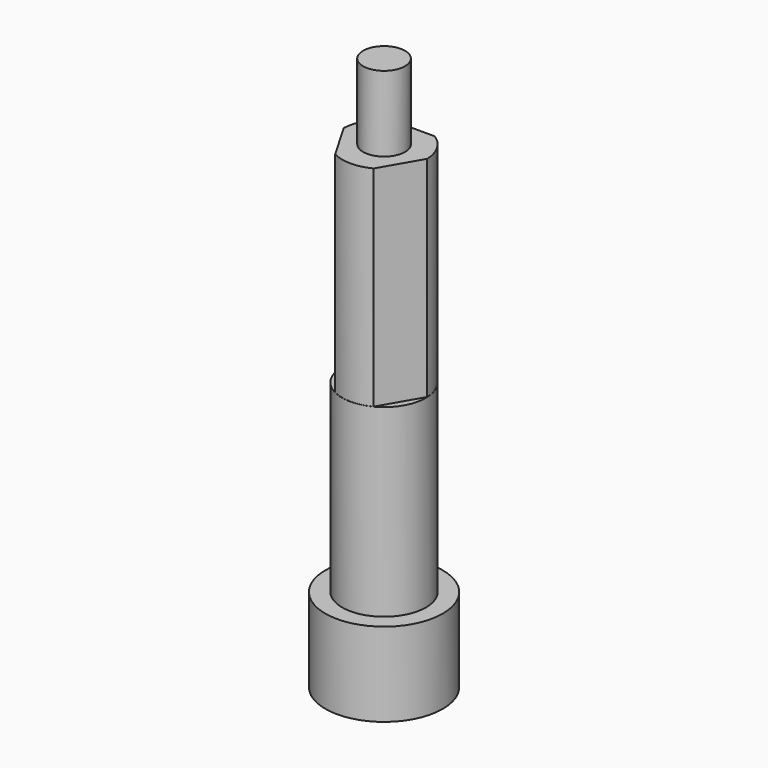
from build123d import *

# Parameters (mm, degrees)
F0_R      = 8.89
F1_DEPTH  = 12.7
F2_R      = 6.35
F3_DEPTH  = 27.94
F5_DEPTH  = 43.18
F6_R      = 20.2522571076
F6_R_2    = 6.3246
F7_DEPTH  = 43.18
F8_R      = 4
F9_DEPTH  = 33.02
F13_D     = 2.2606
F13_DEPTH = 8.89
F13_START = 0.0721476
F13_TIP   = 0.6791527577
F14_R     = 8.89
F14_R_2   = 3.175
F15_DEPTH = 11.43


with BuildPart() as f1:
    # F0 (on Top) → F1 (new body)
    with BuildSketch(Plane.XY):
        Circle(F0_R)
    extrude(amount=F1_DEPTH)

    # F2 (on face) → F3 (join)
    with BuildSketch(Plane.XY.offset(12.7)):
        Circle(F2_R)
    extrude(amount=F3_DEPTH)

    # F4 (on face) → F5 (join)
    with BuildSketch(Plane.XY.offset(40.64)):
        Polygon((0, -10.668), (9.2387590076, 5.334), (-9.2387590076, 5.334), align=None)
    extrude(amount=F5_DEPTH)

    # F6 (on face) → F7 (cut, through all)
    with BuildSketch(Plane.XY.offset(83.82)):
        Circle(F6_R)
        Circle(F6_R_2, mode=Mode.SUBTRACT)
    extrude(amount=-F7_DEPTH, mode=Mode.SUBTRACT)

    # F8 (on face) → F9 (cut)
    with BuildSketch(Plane(origin=(0, 0, 0), x_dir=(1, 0, 0), z_dir=(0, 0, -1))):
        Circle(F8_R)
    extrude(amount=-F9_DEPTH, mode=Mode.SUBTRACT)

    # F13
    # its depths count from where the whole tool has entered the part; down to there all is cleared
    with Locations(Plane(origin=(-8.89, 0, 0), x_dir=(0, 1, 0), z_dir=(-1, 0, 0)).offset(-F13_START)):
        with Locations((0, -7.62)):
            Hole(F13_D / 2, depth=F13_DEPTH)
            with Locations((0, 0, -(F13_DEPTH + F13_TIP / 2))):  # 118° drill point
                Cone(0, F13_D / 2, F13_TIP, mode=Mode.SUBTRACT)

    # F14 (on face) → F15 (cut)
    with BuildSketch(Plane.XY.offset(83.82)):
        Circle(F14_R)
        Circle(F14_R_2, mode=Mode.SUBTRACT)
    extrude(amount=-F15_DEPTH, mode=Mode.SUBTRACT)


solid = f1.part
